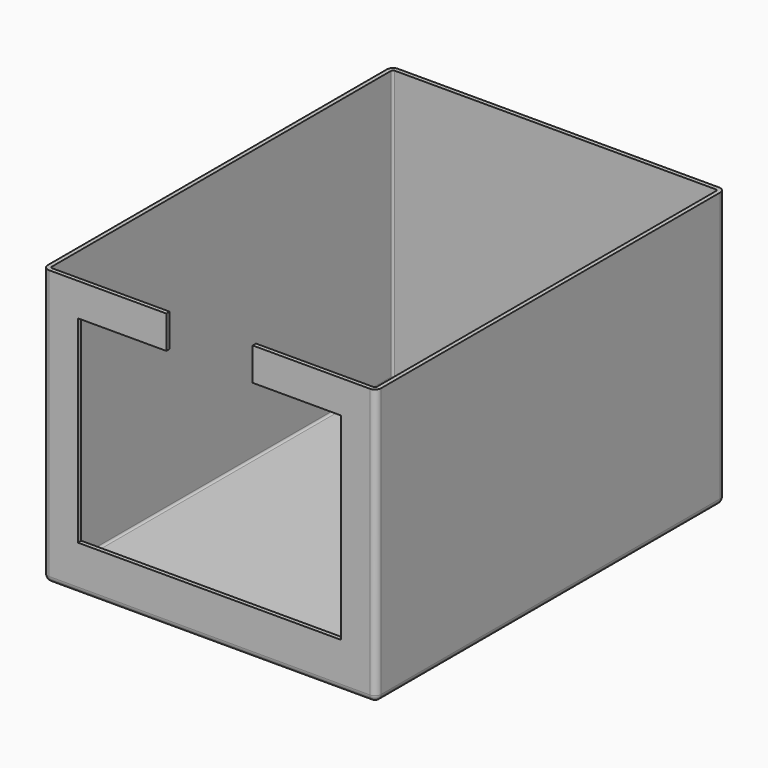
from build123d import *

# Parameters (mm, degrees)
BOX040_W     = 12.8
BOX040_H     = 0.2
BOX040_DEPTH = 9.6
BOX041_W     = 4.2
BOX041_H     = 0.2
BOX041_DEPTH = 1.6
BOX007_W     = 15.8
BOX007_H     = 20.8
BOX007_DEPTH = 13.2
FILLET008_R  = 0.1
BOX039_W     = 16.2
BOX039_H     = 21.2
BOX039_DEPTH = 13.4
FILLET011_R  = 0.3


with BuildPart() as cube032:
    # Box040 → Box040 (new body)
    with BuildSketch(Plane(origin=(-6.4, 0, 2.2), x_dir=(1, 0, 0), z_dir=(0, 0, 1))):
        with Locations((6.4, 0.1)):
            Rectangle(BOX040_W, BOX040_H)
    extrude(amount=BOX040_DEPTH)


with BuildPart() as cube033:
    # Box041 → Box041 (new body)
    with BuildSketch(Plane(origin=(-2.1, 0, 11.8), x_dir=(1, 0, 0), z_dir=(0, 0, 1))):
        with Locations((2.1, 0.1)):
            Rectangle(BOX041_W, BOX041_H)
    extrude(amount=BOX041_DEPTH)


with BuildPart() as fusion042:
    # Box007 → Box007 (new body)
    with BuildSketch(Plane(origin=(-7.9, 0.2, 0.2), x_dir=(1, 0, 0), z_dir=(0, 0, 1))):
        with Locations((7.9, 10.4)):
            Rectangle(BOX007_W, BOX007_H)
    extrude(amount=BOX007_DEPTH)

    # Fillet008
    fillet008_edges = [fusion042.edges().sort_by_distance(p)[0] for p in [
        (-7.9, 0.2, 6.8),
        (-7.9, 21, 6.8),
        (-7.9, 10.6, 0.2),
        (7.9, 0.2, 6.8),
        (7.9, 21, 6.8),
        (7.9, 10.6, 0.2),
        (0, 0.2, 0.2),
        (0, 21, 0.2),
    ]]
    fillet(fillet008_edges, radius=FILLET008_R)

    # Fusion042: union Cube032, Cube033
    add(cube032.part)
    add(cube033.part)


with BuildPart() as shield001:
    # Box039 → Box039 (new body)
    with BuildSketch(Plane(origin=(-8.1, 0, 0), x_dir=(1, 0, 0), z_dir=(0, 0, 1))):
        with Locations((8.1, 10.6)):
            Rectangle(BOX039_W, BOX039_H)
    extrude(amount=BOX039_DEPTH)

    # Fillet011
    fillet011_edges = [shield001.edges().sort_by_distance(p)[0] for p in [
        (-8.1, 0, 6.7),
        (-8.1, 21.2, 6.7),
        (-8.1, 10.6, 0),
        (8.1, 0, 6.7),
        (8.1, 21.2, 6.7),
        (8.1, 10.6, 0),
        (0, 0, 0),
        (0, 21.2, 0),
    ]]
    fillet(fillet011_edges, radius=FILLET011_R)

    # Cut009: cut Fusion042
    add(fusion042.part, mode=Mode.SUBTRACT)


solid = shield001.part
